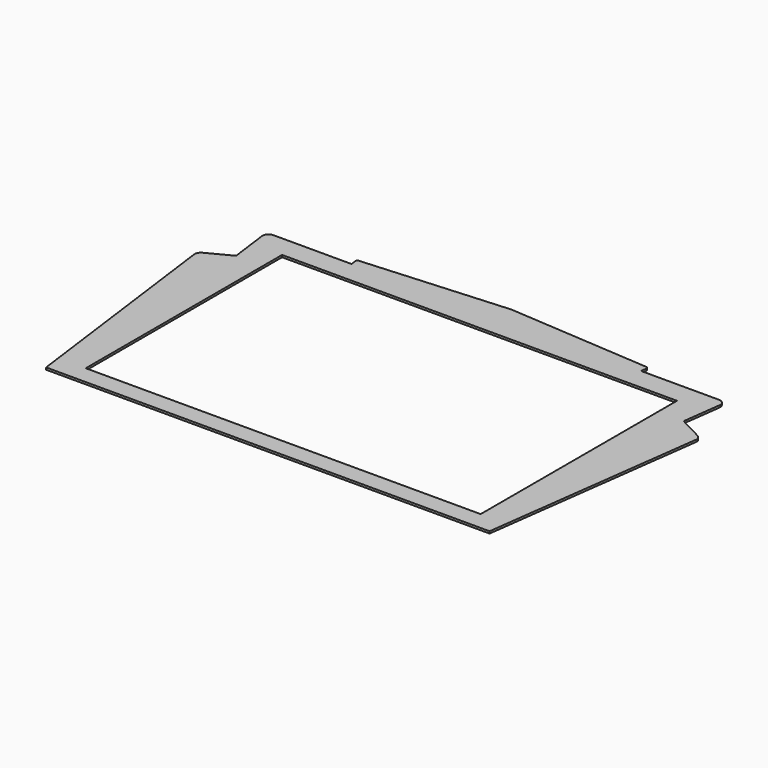
from build123d import *

# Parameters (mm, degrees)
F1_DEPTH = 1.397
F2_R     = 4.1402
F3_R     = 1.397


with BuildPart() as f1:
    # F0 (on Top) → F1 (new body)
    with BuildSketch(Plane.XY):
        Polygon((-97.091727, 139.401406), (-153.911527, 139.401406), (-149.916979, 109.059797), (-168.39164, 99.442497), (-148.55581, -51.225594), (0, -51.225594), (147.53981, -51.225594), (167.37564, 99.442497), (148.900979, 109.059797), (152.895527, 139.401406), (96.075727, 139.401406), (96.896243, 144.631802), (0, 151.339406), (-97.906282, 144.544299), align=None)
        Polygon((-131.826, -39.033594), (-131.826, 124.796406), (0, 124.796406), (130.81, 124.796406), (131.826, 124.796406), (131.826, -39.033594), (-1.016, -39.033594), align=None, mode=Mode.SUBTRACT)
    extrude(amount=F1_DEPTH)

    # F2
    f2_edges = [f1.edges().sort_by_distance(p)[0] for p in [
        (-153.911527, 139.401406, 0.6985),
        (152.895527, 139.401406, 0.6985),
        (-168.39164, 99.442497, 0.6985),
        (167.37564, 99.442497, 0.6985),
    ]]
    fillet(f2_edges, radius=F2_R)

    # F3
    f3_edges = [f1.edges().sort_by_distance(p)[0] for p in [
        (96.896243, 144.631802, 0.6985),
        (-97.906282, 144.544299, 0.6985),
    ]]
    fillet(f3_edges, radius=F3_R)


solid = f1.part
